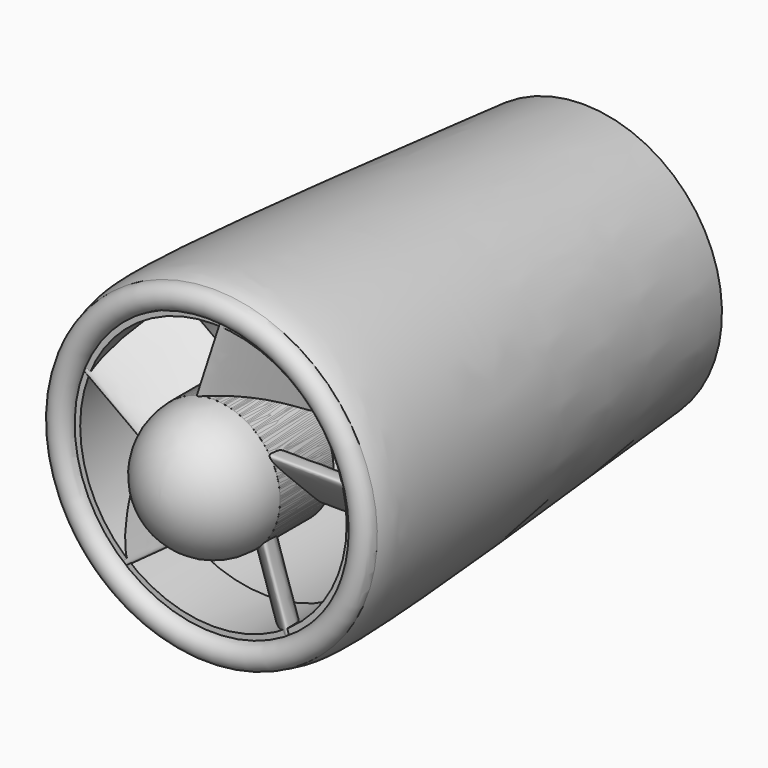
from build123d import *

# Parameters (mm, degrees)
F0_R     = 25.4
F1_DEPTH = 25.4
F3_DEPTH = 50.8
F4_COUNT = 5
F5_R     = 52.8912815085
F5_R_2   = 50.737069125
F6_DEPTH = 25.4


with BuildPart() as f1:
    # F0 (on Front) → F1 (new body)
    with BuildSketch(Plane.XZ):
        Circle(F0_R)
    extrude(amount=-F1_DEPTH)

    # F2 (on Right) → F3 (join)
    with BuildSketch(Plane.YZ):
        with BuildLine():
            add(Edge.make_bspline(
                [(0, 13.64365872), (0.5391643729, 14.0185073014), (3.5510055592, 13.5404134061), (7.9514472161, 13.8302006295), (39.5734664456, -27.7776414656), (1.7585688898, 7.2551801283), (-0.8028609734, 13.085477742), (0, 13.64365872)],
                knots=[0, 0, 0, 0, 0.0969606366, 0.2309053304, 0.5411361754, 0.8556174796, 1, 1, 1, 1], degree=3))
        make_face()
    extrude(amount=F3_DEPTH)


with BuildPart() as f4_1:
    # F4: instance of F1
    add(f1.part.rotate(Axis((0, 0, 0), (0, -1, 0)), 1 * 360 / F4_COUNT))


with BuildPart() as f4_2:
    # F4: instance of F1
    add(f1.part.rotate(Axis((0, 0, 0), (0, -1, 0)), 2 * 360 / F4_COUNT))


with BuildPart() as f4_3:
    # F4: instance of F1
    add(f1.part.rotate(Axis((0, 0, 0), (0, -1, 0)), 3 * 360 / F4_COUNT))


with BuildPart() as f4_4:
    # F4: instance of F1
    add(f1.part.rotate(Axis((0, 0, 0), (0, -1, 0)), 4 * 360 / F4_COUNT))


with BuildPart() as f6:
    # F5 (on face) → F6 (new body)
    with BuildSketch(Plane.XZ):
        Circle(F5_R)
        Circle(F5_R_2, mode=Mode.SUBTRACT)
    extrude(amount=-F6_DEPTH)

    # F9 (on Right) → F10 (revolve)
    with BuildSketch(Plane.YZ):
        with BuildLine():
            ThreePointArc((0, 52.8168776636), (3.3908044727, 54.2213948636), (4.7953216727, 57.6121993363))
            ThreePointArc((4.7953216727, 57.6121993363), (3.3908044727, 61.003003809), (0, 62.407521009))
            ThreePointArc((0, 62.407521009), (-4.7953216727, 57.6121993363), (0, 52.8168776636))
        make_face()
        with BuildLine():
            ThreePointArc((0, 62.407521009), (3.3908044727, 61.003003809), (4.7953216727, 57.6121993363))
            ThreePointArc((4.7953216727, 57.6121993363), (3.3908044727, 54.2213948636), (0, 52.8168776636))
            Line((0, 52.8168776636), (175.9991049767, 52.8168776636))
            add(Edge.make_bspline(
                [(0, 62.407521009), (1.5923202644, 62.9994098499), (10.8340464982, 66.4346952955), (101.2015976775, 58.9839133738), (175.9991049767, 52.8168776636)],
                knots=[0, 0, 0, 0, 0.1722968441, 1, 1, 1, 1], degree=3))
        make_face()
    revolve(axis=Axis((0, 0, 0), (0, -1, 0)))


with BuildPart() as f8:
    # F7 (on Right) → F8 (revolve)
    with BuildSketch(Plane.YZ):
        with BuildLine():
            Line((0, 0), (0, 25.4))
            ThreePointArc((0, 25.4), (-17.9605122421, 17.9605122421), (-25.4, 0))
            Line((-25.4, 0), (0, 0))
        make_face()
    revolve(axis=Axis((0, 0, 0), (0, -1, 0)))


solid = Compound([f1.part, f4_1.part, f4_2.part, f4_3.part, f4_4.part, f6.part, f8.part])
